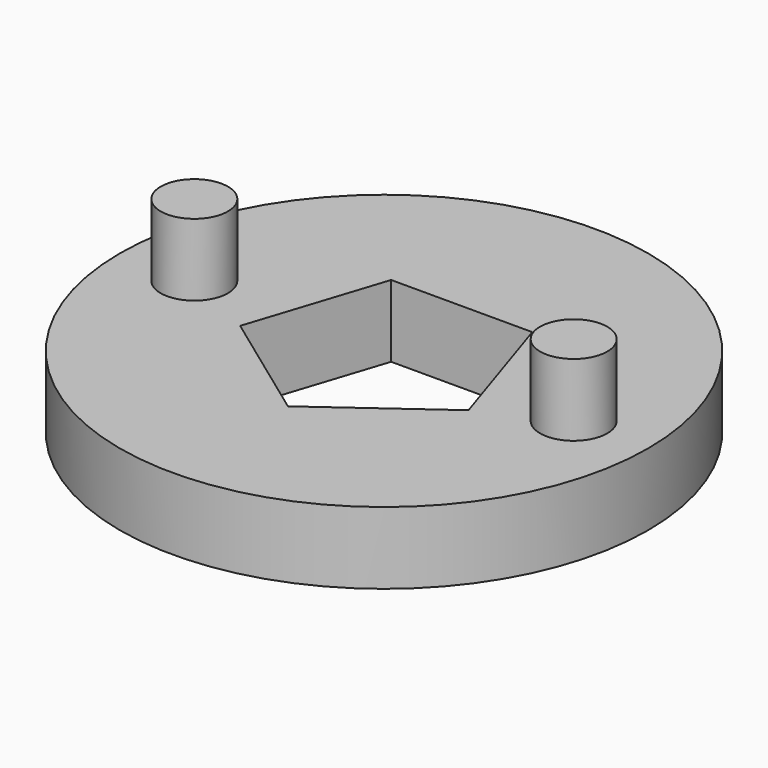
from build123d import *

# Parameters (mm, degrees)
F0_R     = 11
F1_DEPTH = 3
F2_R     = 1.4
F3_DEPTH = 3


with BuildPart() as f1:
    # F0 (on Top) → F1 (new body)
    with BuildSketch(Plane.XY):
        Circle(F0_R)
        Polygon((4.7552825815, -1.5450849719), (0, -5), (-4.7552825815, -1.5450849719), (-2.9389262615, 4.0450849719), (2.9389262615, 4.0450849719), align=None, mode=Mode.SUBTRACT)
    extrude(amount=F1_DEPTH)

    # F2 (on face) → F3 (join)
    with BuildSketch(Plane.XY.offset(3)):
        with Locations((7.9, 0)):
            Circle(F2_R)
    extrude(amount=F3_DEPTH)

    # F4: F1 across plane


with BuildPart() as f1_1:
    add(f1.part)
    add(f1.part.mirror(Plane.YZ))


solid = f1_1.part
